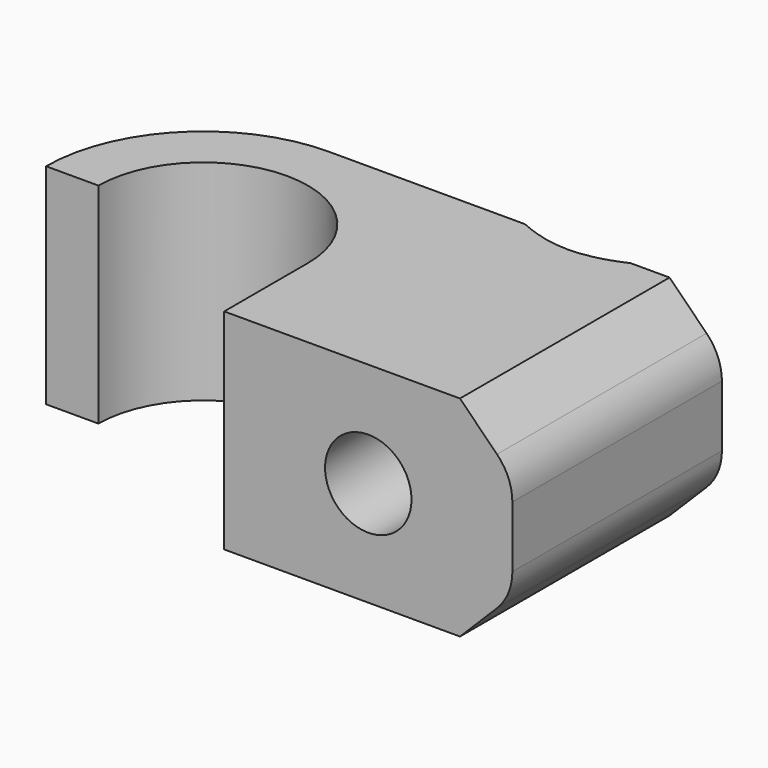
from build123d import *

# Parameters (mm, degrees)
F1_DEPTH       = 4
F3_D           = 3.3
F3_CSINK_D     = 8.96
F3_CSINK_ANGLE = 90
F4_SIZE        = 2
F5_R           = 2


with BuildPart() as f1:
    # F0 (on Top) → F1 (new body, symmetric)
    with BuildSketch(Plane.XY):
        with BuildLine():
            ThreePointArc((-4, 0), (0, 4), (4, 0))
            Line((4, 0), (4, -4))
            Line((4, -4), (15, -4))
            Line((15, -4), (15, 6))
            Line((15, 6), (0, 6))
            ThreePointArc((0, 6), (-4.2426406871, 4.2426406871), (-6, 0))
            Line((-6, 0), (-4, 0))
        make_face()
    extrude(amount=F1_DEPTH, both=True)

    # F3 (through all)
    with Locations(Plane(origin=(0, 6, 0), x_dir=(-1, 0, 0), z_dir=(0, 1, 0))):
        with Locations((-9.5, 0)):
            CounterSinkHole(F3_D / 2, F3_CSINK_D / 2, counter_sink_angle=F3_CSINK_ANGLE)

    # F4
    f4_edges = [f1.edges().sort_by_distance(p)[0] for p in [
        (15, 1, -4),
        (15, 1, 4),
    ]]
    chamfer(f4_edges, length=F4_SIZE)

    # F5
    f5_edges = [f1.edges().sort_by_distance(p)[0] for p in [
        (15, 1, 2),
        (15, 1, -2),
    ]]
    fillet(f5_edges, radius=F5_R)


solid = f1.part
